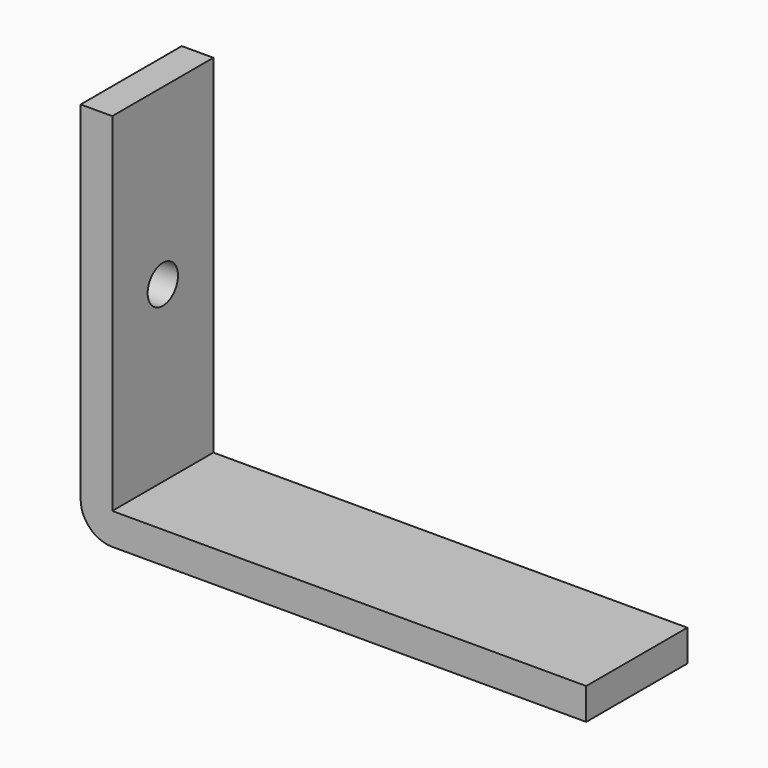
from build123d import *

# Parameters (mm, degrees)
F0_W = 5
F0_H = 20
F4_D = 6


with BuildPart() as f2:
    # F2: sweep along a path in F1
    with BuildLine(Plane.XZ) as f2_path:
        Line((0, 0), (0, -55))
        ThreePointArc((0, -55), (1.4644660941, -58.5355339059), (5, -60))
        Line((5, -60), (80, -60))
    # F0 (on Top) → F2 (sweep)
    with BuildSketch(Plane.XY):
        with Locations((2.5, -10)):
            Rectangle(F0_W, F0_H)
    sweep(path=f2_path.line)

    # F4 (through all)
    with Locations(Plane.YZ.offset(5)):
        with Locations((-10, -27.5)):
            Hole(F4_D / 2)


solid = f2.part
